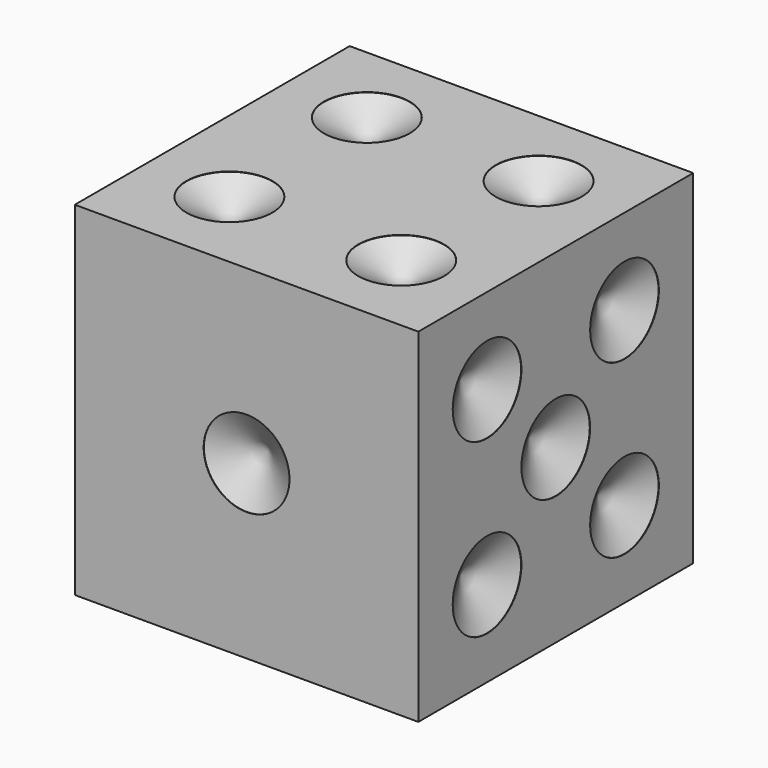
from build123d import *

# Parameters (mm, degrees)
F0_W          = 25.4
F0_H          = 25.4
F1_DEPTH      = 12.7
F1_DEPTH_BACK = 12.7
F3_D          = 6.35
F3_DEPTH      = 0.0254
F3_TIP        = 1.9077324654
F5_D          = 6.35
F5_DEPTH      = 0.0254
F5_TIP        = 1.9077324654
F7_D          = 6.35
F7_DEPTH      = 0.0254
F7_TIP        = 1.9077324654
F9_D          = 6.35
F9_DEPTH      = 0.0254
F9_TIP        = 1.9077324654
F11_D         = 6.35
F11_DEPTH     = 0.0254
F11_TIP       = 1.9077324654
F13_D         = 6.35
F13_DEPTH     = 0.0254
F13_TIP       = 1.9077324654


with BuildPart() as f1:
    # F0 (on Front) → F1 (new body, two sides)
    with BuildSketch(Plane.XZ) as f1_sk:
        with Locations((-12.7, 12.7)):
            Rectangle(F0_W, F0_H)
    extrude(amount=F1_DEPTH)
    extrude(f1_sk.sketch, amount=-F1_DEPTH_BACK)

    # F3
    with Locations(Plane.XZ.offset(12.7)):
        with Locations((-12.7, 12.7)):
            Hole(F3_D / 2, depth=F3_DEPTH)
            with Locations((0, 0, -(F3_DEPTH + F3_TIP / 2))):  # 118° drill point
                Cone(0, F3_D / 2, F3_TIP, mode=Mode.SUBTRACT)

    # F5
    with Locations(Plane.XY.offset(25.4)):
        with Locations((-19.05, 6.35), (-6.35, 6.35), (-6.35, -6.35), (-19.05, -6.35)):
            Hole(F5_D / 2, depth=F5_DEPTH)
            with Locations((0, 0, -(F5_DEPTH + F5_TIP / 2))):  # 118° drill point
                Cone(0, F5_D / 2, F5_TIP, mode=Mode.SUBTRACT)

    # F7
    with Locations(Plane(origin=(0, 0, 0), x_dir=(1, 0, 0), z_dir=(0, 0, -1))):
        with Locations((-21.1666666667, 8.4666666667), (-12.7, 0), (-4.2333333333, -8.4666666667)):
            Hole(F7_D / 2, depth=F7_DEPTH)
            with Locations((0, 0, -(F7_DEPTH + F7_TIP / 2))):  # 118° drill point
                Cone(0, F7_D / 2, F7_TIP, mode=Mode.SUBTRACT)

    # F9
    with Locations(Plane.YZ):
        with Locations((-6.35, 19.05), (0, 12.7), (6.35, 19.05), (6.35, 6.35), (-6.35, 6.35)):
            Hole(F9_D / 2, depth=F9_DEPTH)
            with Locations((0, 0, -(F9_DEPTH + F9_TIP / 2))):  # 118° drill point
                Cone(0, F9_D / 2, F9_TIP, mode=Mode.SUBTRACT)

    # F11
    with Locations(Plane(origin=(-25.4, 0, 0), x_dir=(0, -1, 0), z_dir=(-1, 0, 0))):
        with Locations((-6.35, 19.05), (6.35, 6.35)):
            Hole(F11_D / 2, depth=F11_DEPTH)
            with Locations((0, 0, -(F11_DEPTH + F11_TIP / 2))):  # 118° drill point
                Cone(0, F11_D / 2, F11_TIP, mode=Mode.SUBTRACT)

    # F13
    with Locations(Plane(origin=(0, 12.7, 0), x_dir=(-1, 0, 0), z_dir=(0, 1, 0))):
        with Locations((6.35, 21.1666666667), (6.35, 12.7), (6.35, 4.2333333333), (19.05, 21.1666666667), (19.05, 12.7), (19.05, 4.2333333333)):
            Hole(F13_D / 2, depth=F13_DEPTH)
            with Locations((0, 0, -(F13_DEPTH + F13_TIP / 2))):  # 118° drill point
                Cone(0, F13_D / 2, F13_TIP, mode=Mode.SUBTRACT)


solid = f1.part
